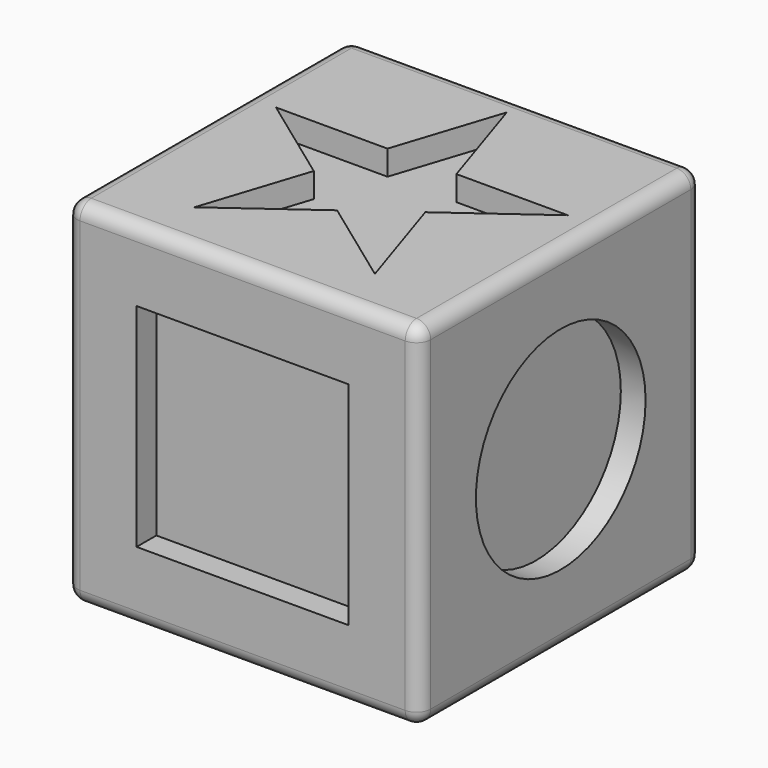
from build123d import *

# Parameters (mm, degrees)
F0_W      = 127
F0_H      = 127
F1_DEPTH  = 63.5
F1_FACE_W = 127
F1_FACE_H = 127
F2_DEPTH  = 63.5
F3_W      = 76.2
F3_H      = 76.2
F4_DEPTH  = 8.89
F5_R      = 38.1
F6_DEPTH  = 8.89
F8_DEPTH  = 8.89
F10_DEPTH = 8.89
F12_DEPTH = 8.89
F13_R     = 5.08
F14_R     = 1.905
F15_DEPTH = 3.81


with BuildPart() as f1:
    # F0 (on Top) → F1 (new body)
    with BuildSketch(Plane.XY):
        Rectangle(F0_W, F0_H)
    extrude(amount=-F1_DEPTH)

    # F1_face (on face) → F2 (join)
    with BuildSketch(Plane.XY):
        Rectangle(F1_FACE_W, F1_FACE_H)
    extrude(amount=F2_DEPTH)

    # F3 (on face) → F4 (cut)
    with BuildSketch(Plane.XZ.offset(63.5)):
        Rectangle(F3_W, F3_H)
    extrude(amount=-F4_DEPTH, mode=Mode.SUBTRACT)

    # F5 (on face) → F6 (cut)
    with BuildSketch(Plane.YZ.offset(63.5)):
        Circle(F5_R)
    extrude(amount=-F6_DEPTH, mode=Mode.SUBTRACT)

    # F7 (on face) → F8 (cut)
    with BuildSketch(Plane(origin=(0, 63.5, 0), x_dir=(-1, 0, 0), z_dir=(0, 1, 0))):
        Polygon((-43.994091, -25.4), (43.994091, -25.4), (0, 50.8), align=None)
    extrude(amount=-F8_DEPTH, mode=Mode.SUBTRACT)

    # F9 (on face) → F10 (cut)
    with BuildSketch(Plane(origin=(-63.5, 0, 0), x_dir=(0, -1, 0), z_dir=(-1, 0, 0))):
        Polygon((21.997045, 38.1), (-21.997045, 38.1), (-43.994091, 0), (-21.997045, -38.1), (21.997045, -38.1), (43.994091, 0), align=None)
    extrude(amount=-F10_DEPTH, mode=Mode.SUBTRACT)

    # F11 (on face) → F12 (cut)
    with BuildSketch(Plane.XY.offset(63.5)):
        Polygon((0, 55.138838), (-12.37944, 17.038838), (-52.440151, 17.038838), (-20.030355, -6.508257), (-32.409796, -44.608257), (0, -21.061162), (32.409796, -44.608257), (20.030355, -6.508257), (52.440151, 17.038838), (12.37944, 17.038838), align=None)
    extrude(amount=-F12_DEPTH, mode=Mode.SUBTRACT)

    # F13
    f13_edges = [f1.edges().sort_by_distance(p)[0] for p in [
        (-63.5, 0, 63.5),
        (0, 63.5, 63.5),
        (63.5, 0, 63.5),
        (0, -63.5, 63.5),
        (63.5, -63.5, 0),
        (63.5, 63.5, 0),
        (63.5, 0, -63.5),
        (0, -63.5, -63.5),
        (-63.5, -63.5, 0),
        (0, 63.5, -63.5),
        (-63.5, 63.5, 0),
        (-63.5, 0, -63.5),
    ]]
    fillet(f13_edges, radius=F13_R)

    # F14 (on face) → F15 (cut)
    with BuildSketch(Plane(origin=(0, 0, 38.1), x_dir=(1, 0, 0), z_dir=(0, 0, -1))):
        with Locations((0, 58.912385)):
            Circle(F14_R)
    extrude(amount=-F15_DEPTH, mode=Mode.SUBTRACT)


solid = f1.part
